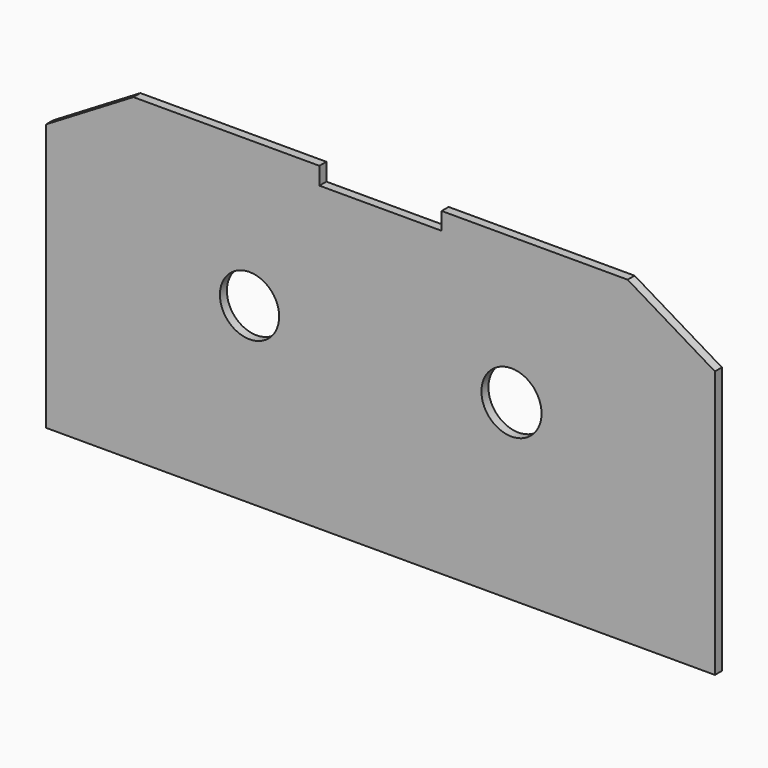
from build123d import *

# Parameters (mm, degrees)
F0_R     = 16.967822
F0_R_2   = 17.211277
F1_DEPTH = 5


with BuildPart() as f1:
    # F0 (on Front) → F1 (new body)
    with BuildSketch(Plane.XZ):
        Polygon((-35, 83.516046), (-141.5, 83.516046), (-191.5, 53.516046), (-191.5, -99.483954), (191.5, -99.483954), (191.5, 53.516046), (141.5, 83.516046), (35, 83.516046), (35, 73.516046), (-35, 73.516046), align=None)
        with Locations((-75, 0)):
            Circle(F0_R, mode=Mode.SUBTRACT)
        with Locations((75, 0)):
            Circle(F0_R_2, mode=Mode.SUBTRACT)
    extrude(amount=F1_DEPTH)


solid = f1.part
